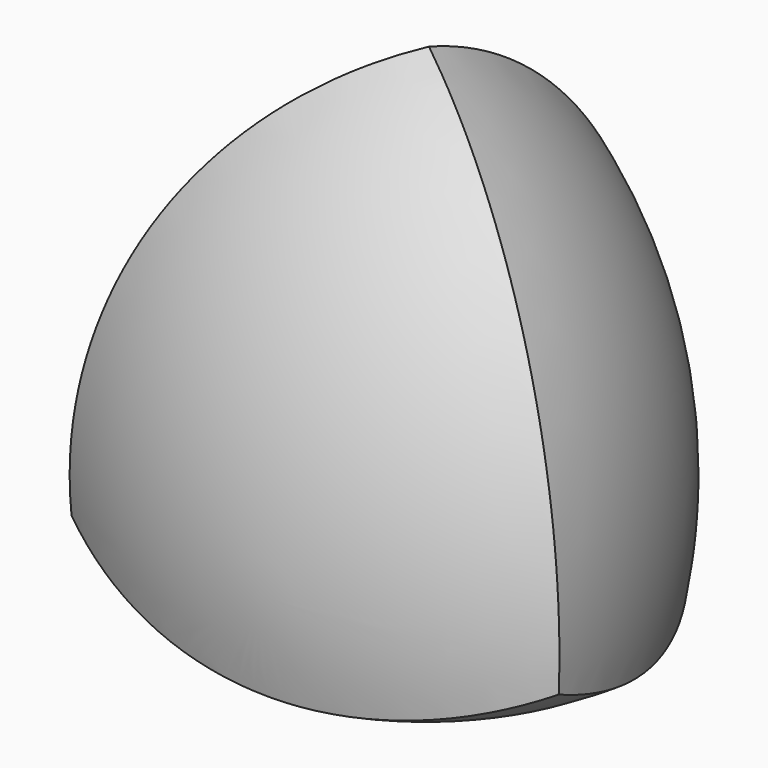
from build123d import *


with BuildPart() as f5:
    # F4 (on Front) → F5 (revolve)
    with BuildSketch(Plane.XZ):
        with BuildLine():
            Line((0, 16.9418), (0, 0))
            Line((0, 0), (0, -8.4582))
            ThreePointArc((0, -8.4582), (25.4, 16.9418), (0, 42.3418))
            Line((0, 42.3418), (0, 16.9418))
        make_face()
    revolve(axis=Axis((0, 0, 16.9418), (0, 0, -1)))

    # F2 (on Top) → F6 (revolve, intersect)
    with BuildSketch(Plane.XY):
        with BuildLine():
            Line((0, 46.263021417), (0, -12.2905196622))
            ThreePointArc((0, -12.2905196622), (29.2767705396, 16.9862508774), (0, 46.263021417))
        make_face()
    revolve(axis=Axis((0, 16.9862508774, 0), (0, -1, 0)), mode=Mode.INTERSECT)

    # F3 (on Top) → F8 (revolve, intersect)
    with BuildSketch(Plane.XY):
        with BuildLine():
            Line((-39.9929191695, -22.8585096233), (10.7572382071, 6.4421073995))
            ThreePointArc((10.7572382071, 6.4421073995), (-29.2681489926, 17.1668775764), (-39.9929191695, -22.8585096233))
        make_face()
    revolve(axis=Axis((-14.6178404812, -8.2082011119, 0), (-0.8660254038, -0.5, 0)), mode=Mode.INTERSECT)

    # F1 (on Top) → F9 (revolve, intersect)
    with BuildSketch(Plane.XY):
        with BuildLine():
            Line((0, -0.0084829462), (0, 0))
            Line((0, 0), (-10.7133459402, 6.179514724))
            ThreePointArc((-10.7133459402, 6.179514724), (0.0151414181, -33.805722394), (39.9988528315, -23.0715503257))
            Line((39.9988528315, -23.0715503257), (14.6406725481, -8.4448175281))
            Line((14.6406725481, -8.4448175281), (0.0073489014, -0.0042388853))
            Line((0.0073489014, -0.0042388853), (0, -0.0084829462))
        make_face()
    revolve(axis=Axis((14.6427534456, -8.4460178008, 0), (0.8662297429, -0.4996459071, 0)), mode=Mode.INTERSECT)


solid = f5.part
